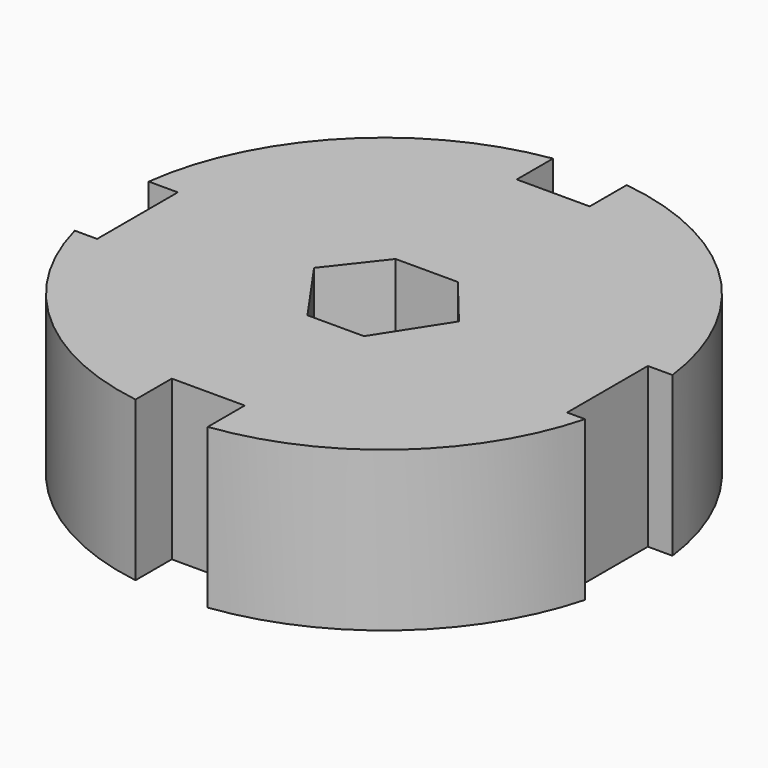
from build123d import *

# Parameters (mm, degrees)
F1_DEPTH = 25.4
F3_DEPTH = 25.4


with BuildPart() as f1:
    # F0 (on Top) → F1 (new body)
    with BuildSketch(Plane.XY):
        with BuildLine():
            Line((37.868491, 5.316054), (41.799328, 5.316054))
            ThreePointArc((41.799328, 5.316054), (29.791854, 29.797478), (5.308163, 41.800331))
            Line((5.308163, 41.800331), (5.308163, 34.417406))
            Line((5.308163, 34.417406), (-6.335541, 34.417406))
            Line((-6.335541, 34.417406), (-6.335541, 41.656995))
            ThreePointArc((-6.335541, 41.656995), (-30.156382, 29.428505), (-41.799328, 5.316054))
            Line((-41.799328, 5.316054), (-37.1571, 5.316054))
            Line((-37.1571, 5.316054), (-37.1571, -10.787546))
            Line((-37.1571, -10.787546), (-40.731721, -10.787546))
            ThreePointArc((-40.731721, -10.787546), (-28.143605, -31.358918), (-6.335541, -41.656995))
            Line((-6.335541, -41.656995), (-6.335541, -34.417406))
            Line((-6.335541, -34.417406), (5.308163, -34.417406))
            Line((5.308163, -34.417406), (5.308163, -41.800331))
            ThreePointArc((5.308163, -41.800331), (27.755467, -31.70297), (40.731721, -10.787546))
            Line((40.731721, -10.787546), (37.868491, -10.787546))
            Line((37.868491, -10.787546), (37.868491, 5.316054))
        make_face()
    extrude(amount=F1_DEPTH)

    # F2 (on face) → F3 (cut)
    with BuildSketch(Plane.XY.offset(25.4)):
        Polygon((-4.727943, 8.222665), (-11.15968, 0), (-3.801986, -10.510728), (5.216561, -10.510728), (11.972982, 0), (5.216561, 8.222665), align=None)
    extrude(amount=-F3_DEPTH, mode=Mode.SUBTRACT)


solid = f1.part
